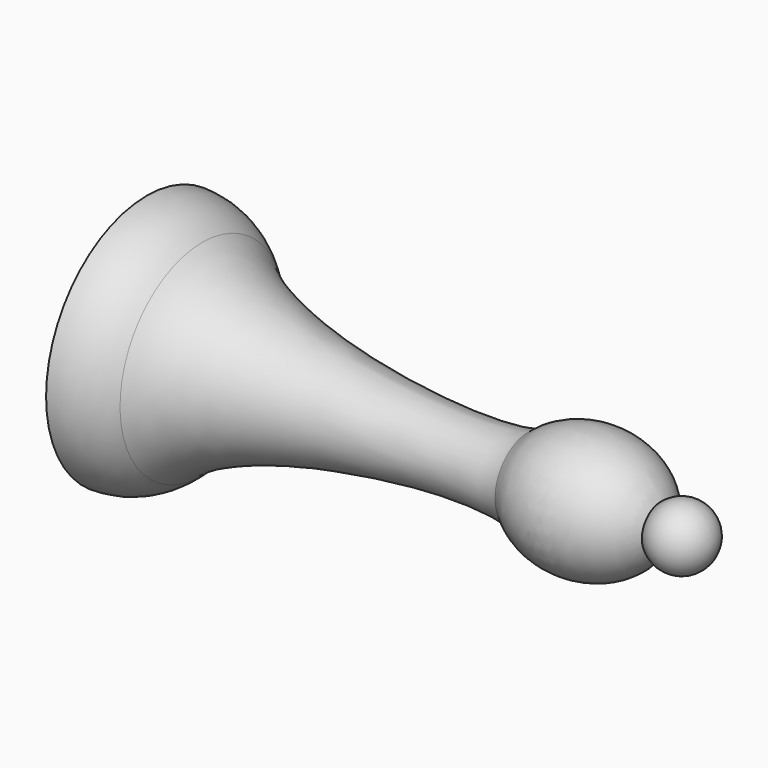
from build123d import *


with BuildPart() as f1:
    # F0 (on Front) → F1 (revolve)
    with BuildSketch(Plane.XZ):
        with BuildLine():
            Line((0, 12.6999883975), (0, 0))
            Line((0, 0), (57.1500015805, 0))
            ThreePointArc((57.1500015805, 0), (55.2530711286, 2.9064014221), (51.8289527481, 2.3398966278))
            add(Edge.make_bspline(
                [(51.8289527481, 2.3398966278), (47.0294900679, 12.026480669), (38.4681603694, 4.173931089)],
                knots=[0.3773819723, 0.3773819723, 0.3773819723, 2.424345633, 2.424345633, 2.424345633], degree=2, weights=[1, 0.5203958893, 1]))
            add(Edge.make_bspline(
                [(5.5963982414, 10.3674702788), (11.280348536, 4.6333622787), (33.3341983088, 2.4200785353), (38.4681603694, 4.173931089)],
                knots=[3.9388009367, 3.9388009367, 3.9388009367, 3.9388009367, 35.2212948145, 35.2212948145, 35.2212948145, 35.2212948145], degree=3))
            ThreePointArc((5.5963982414, 10.3674702788), (3.0315142277, 12.0935210259), (0, 12.6999883975))
        make_face()
    revolve(axis=Axis((28.5750007903, 0, 0), (1, 0, 0)))


solid = f1.part
